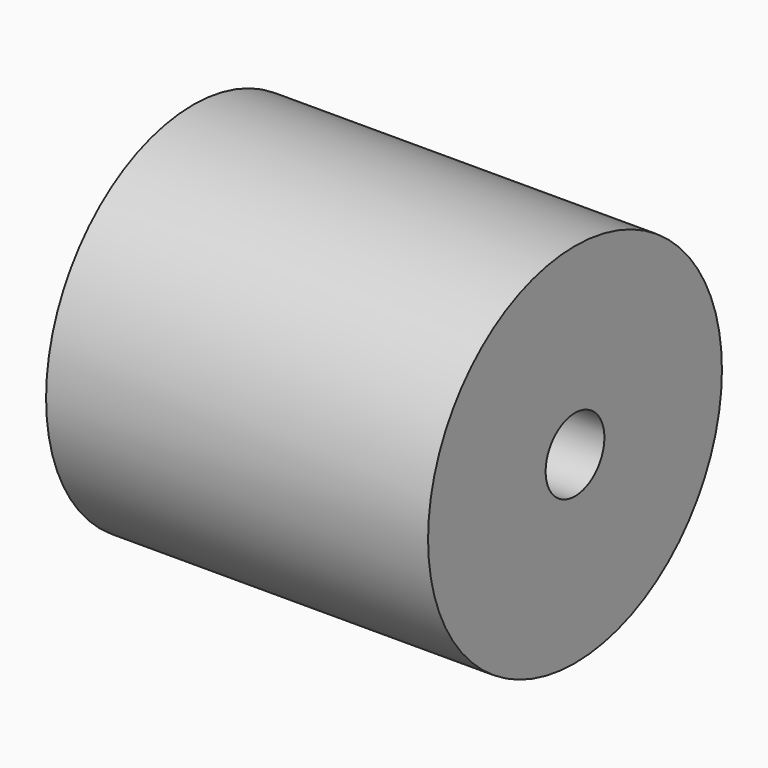
from build123d import *

# Parameters (mm, degrees)
SKETCH051_R             = 12.5
PAD018_DEPTH            = 13
SKETCH055_R             = 2.5
POCKET030_DEPTH         = 8
SKETCH056_R             = 2.5
POCKET029_DEPTH         = 8
BODY013_PLACEMENT_ANGLE = -90


with BuildPart() as part:
    # Sketch051 → Pad018 (new body, symmetric)
    with BuildSketch(Plane.XZ):
        Circle(SKETCH051_R)
    extrude(amount=PAD018_DEPTH, both=True)

    # Sketch055 (on Face3 of Pad018) → Pocket030 (cut)
    with BuildSketch(Plane.XZ.offset(13)):
        Circle(SKETCH055_R)
    extrude(amount=-POCKET030_DEPTH, mode=Mode.SUBTRACT)

    # Sketch056 (on Face2 of Pocket030) → Pocket029 (cut)
    with BuildSketch(Plane(origin=(0, 13, 0), x_dir=(1, 0, 0), z_dir=(0, 1, 0))):
        Circle(SKETCH056_R)
    extrude(amount=-POCKET029_DEPTH, mode=Mode.SUBTRACT)


with BuildPart() as part_1:
    # Body013 placement: moved
    add(part.part.moved(Location((-17.75, 0, 150))).rotate(Axis((-17.75, 0, 150), (0, 0, 1)), BODY013_PLACEMENT_ANGLE))


solid = part_1.part
